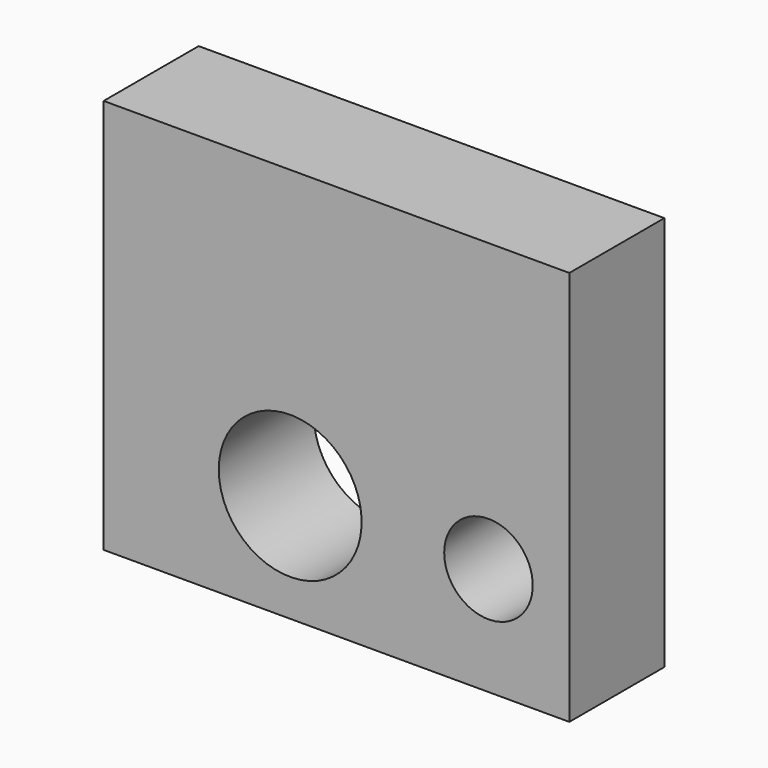
from build123d import *

# Parameters (mm, degrees)
F0_W     = 45.491502
F0_H     = 38.61044
F1_DEPTH = 11.6
F2_R     = 6.976475
F2_R_2   = 4.325021
F3_DEPTH = 25


with BuildPart() as f1:
    # F0 (on Front) → F1 (new body)
    with BuildSketch(Plane.XZ):
        with Locations((22.745751, 19.30522)):
            Rectangle(F0_W, F0_H)
    extrude(amount=F1_DEPTH)

    # F2 (on face) → F3 (cut)
    with BuildSketch(Plane(origin=(0, 0, 0), x_dir=(-1, 0, 0), z_dir=(0, 1, 0))):
        with Locations((-18.222088, 10.576457)):
            Circle(F2_R)
        with Locations((-37.591022, 10.576457)):
            Circle(F2_R_2)
    extrude(amount=-F3_DEPTH, mode=Mode.SUBTRACT)


solid = f1.part
